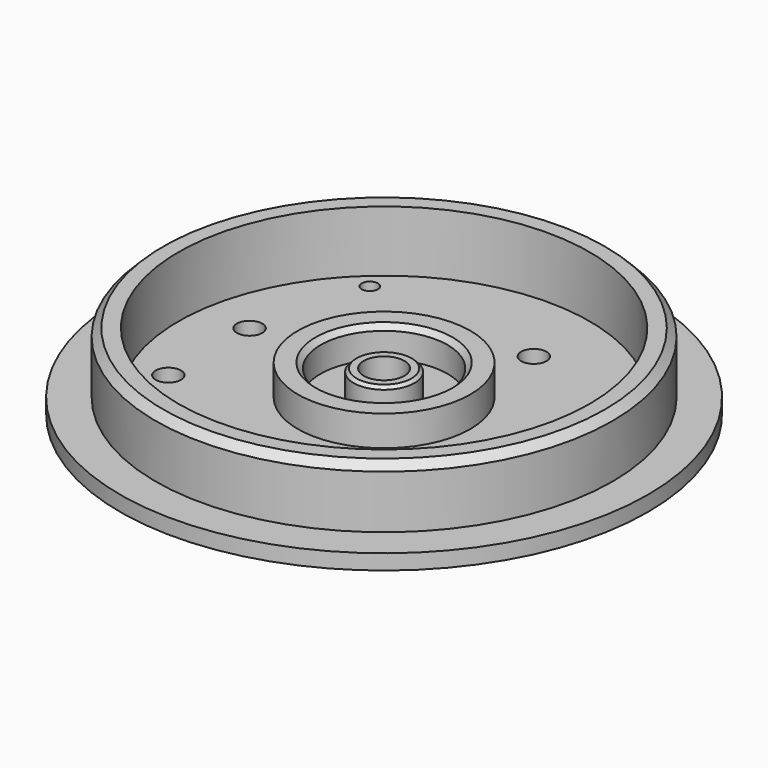
from build123d import *

# Parameters (mm, degrees)
SKETCH_R        = 52
SKETCH_R_2      = 4
PAD_DEPTH       = 3
SKETCH001_R     = 45
SKETCH001_R_2   = 40.5
PAD001_DEPTH    = 12
SKETCH002_R     = 2.5
POCKET_DEPTH    = 3.001
SKETCH003_R     = 17
SKETCH003_R_2   = 12.5
PAD002_DEPTH    = 6
SKETCH004_R     = 6
SKETCH004_R_2   = 4
PAD003_DEPTH    = 5
CHAMFER_SIZE    = 1.5
CHAMFER001_SIZE = 1
CHAMFER002_SIZE = 0.6
SKETCH005_R     = 1.6
POCKET001_DEPTH = 3.001


with BuildPart() as part:
    # Sketch → Pad (new body)
    with BuildSketch(Plane.XY):
        Circle(SKETCH_R)
        Circle(SKETCH_R_2, mode=Mode.SUBTRACT)
    extrude(amount=PAD_DEPTH)

    # Sketch001 (on Face4 of Pad) → Pad001 (join)
    with BuildSketch(Plane.XY.offset(3)):
        Circle(SKETCH001_R)
        Circle(SKETCH001_R_2, mode=Mode.SUBTRACT)
    extrude(amount=PAD001_DEPTH)

    # Sketch002 (on Face6 of Pad001) → Pocket (cut, through all)
    with BuildSketch(Plane.XY.offset(3)):
        with Locations((-30.5, 5)):
            Circle(SKETCH002_R)
        with Locations((-30.5, -15)):
            Circle(SKETCH002_R)
        with Locations((-10.5, -25)):
            Circle(SKETCH002_R)
        with Locations((9.5, 25)):
            Circle(SKETCH002_R)
        with Locations((29.5, 15)):
            Circle(SKETCH002_R)
        with Locations((29.5, -5)):
            Circle(SKETCH002_R)
    extrude(amount=-POCKET_DEPTH, mode=Mode.SUBTRACT)

    # Sketch003 (on Face12 of Pocket) → Pad002 (join)
    with BuildSketch(Plane.XY.offset(3)):
        Circle(SKETCH003_R)
        Circle(SKETCH003_R_2, mode=Mode.SUBTRACT)
    extrude(amount=PAD002_DEPTH)

    # Sketch004 (on Face13 of Pad002) → Pad003 (join)
    with BuildSketch(Plane.XY.offset(3)):
        Circle(SKETCH004_R)
        Circle(SKETCH004_R_2, mode=Mode.SUBTRACT)
    extrude(amount=PAD003_DEPTH)

    # Chamfer
    chamfer_edges = [part.edges().sort_by_distance(p)[0] for p in [
        (-45, 0, 15),
    ]]
    chamfer(chamfer_edges, length=CHAMFER_SIZE)

    # Chamfer001
    chamfer001_edges = [part.edges().sort_by_distance(p)[0] for p in [
        (-12.5, 0, 9),
    ]]
    chamfer(chamfer001_edges, length=CHAMFER001_SIZE)

    # Chamfer002
    chamfer002_edges = [part.edges().sort_by_distance(p)[0] for p in [
        (-6, 0, 8),
    ]]
    chamfer(chamfer002_edges, length=CHAMFER002_SIZE)

    # Sketch005 (on Face19 of Chamfer002) → Pocket001 (cut, through all)
    with BuildSketch(Plane.XY.offset(3)):
        with Locations((-24.792704, 27.46492)):
            Circle(SKETCH005_R)
        with Locations((36.18167, 7.738652)):
            Circle(SKETCH005_R)
        with Locations((-11.388966, -35.203572)):
            Circle(SKETCH005_R)
    extrude(amount=-POCKET001_DEPTH, mode=Mode.SUBTRACT)


solid = part.part
